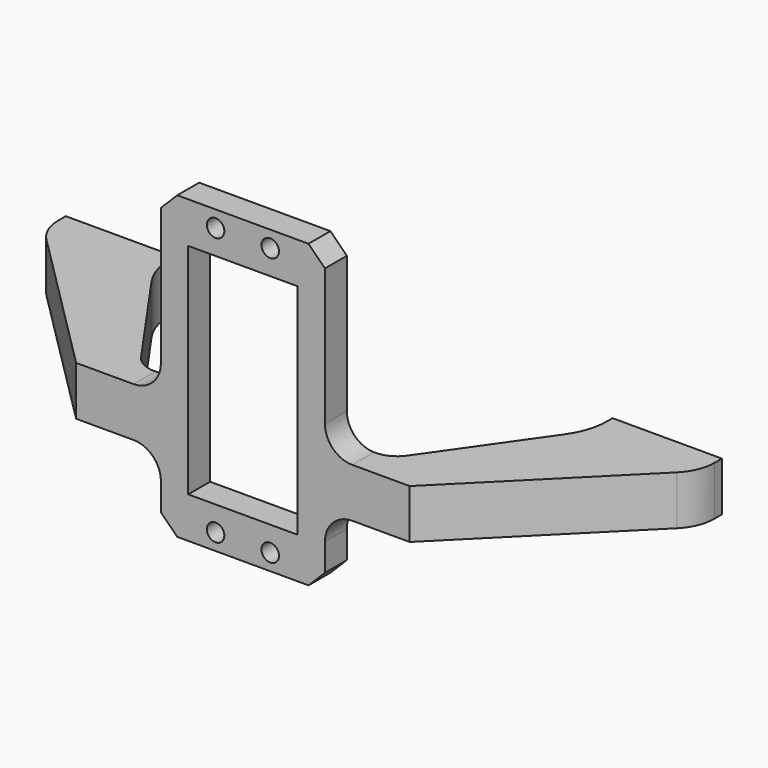
from build123d import *

# Parameters (mm, degrees)
PAD005_DEPTH    = 4.5
SKETCH013_R     = 2.3
POCKET009_DEPTH = 10
SKETCH014_W     = 30
SKETCH014_H     = 55
SKETCH014_R     = 1.6
SKETCH014_W_2   = 20
SKETCH014_H_2   = 40
PAD006_DEPTH    = 5
FILLET007_R     = 12
FILLET008_R     = 5
FILLET009_R     = 8
CHAMFER009_SIZE = 3
FILLET010_R     = 5


with BuildPart() as part:
    # Sketch012 → Pad005 (new body, symmetric)
    with BuildSketch(Plane.XY):
        Polygon((-60, 0), (-60, -5), (-30.5, -34.5), (-10, -34.5), (-10, -29.5), (-22.844915, -29.5), (-40, -5), (-40, 0), align=None)
    pad005 = extrude(amount=PAD005_DEPTH, both=True)

    # Sketch013 (on Face8 of Pad005) → Pocket009 (cut)
    with BuildSketch(Plane(origin=(0, 0, 0), x_dir=(-1, 0, 0), z_dir=(0, 1, 0))):
        with Locations((50, 0)):
            Circle(SKETCH013_R)
    pocket009 = extrude(amount=-POCKET009_DEPTH, mode=Mode.SUBTRACT)

    # Mirrored001: Pad005, Pocket009 across YZ
    add(pad005.mirror(Plane.YZ))
    add(pocket009.mirror(Plane.YZ), mode=Mode.SUBTRACT)

    # Sketch014 (on Face10 of Mirrored001) → Pad006 (join)
    with BuildSketch(Plane(origin=(0, -29.5, 0), x_dir=(-1, 0, 0), z_dir=(0, 1, 0))):
        with Locations((0, 10)):
            Rectangle(SKETCH014_W, SKETCH014_H)
        with Locations((5, 34.5)):
            Circle(SKETCH014_R, mode=Mode.SUBTRACT)
        with Locations((-5, 34.5)):
            Circle(SKETCH014_R, mode=Mode.SUBTRACT)
        with Locations((5, -14.5)):
            Circle(SKETCH014_R, mode=Mode.SUBTRACT)
        with Locations((-5, -14.5)):
            Circle(SKETCH014_R, mode=Mode.SUBTRACT)
        with Locations((0, 10)):
            Rectangle(SKETCH014_W_2, SKETCH014_H_2, mode=Mode.SUBTRACT)
    extrude(amount=-PAD006_DEPTH)

    # Fillet007
    fillet007_edges = [part.edges().sort_by_distance(p)[0] for p in [
        (-40, -5, 0),
        (40, -5, 0),
    ]]
    fillet(fillet007_edges, radius=FILLET007_R)

    # Fillet008
    fillet008_edges = [part.edges().sort_by_distance(p)[0] for p in [
        (22.844915, -29.5, 0),
        (-22.844915, -29.5, 0),
    ]]
    fillet(fillet008_edges, radius=FILLET008_R)

    # Fillet009
    fillet009_edges = [part.edges().sort_by_distance(p)[0] for p in [
        (60, -5, 0),
        (-60, -5, 0),
    ]]
    fillet(fillet009_edges, radius=FILLET009_R)

    # Chamfer009
    chamfer009_edges = [part.edges().sort_by_distance(p)[0] for p in [
        (15, -32, -17.5),
        (-15, -32, -17.5),
        (15, -32, 37.5),
        (-15, -32, 37.5),
    ]]
    chamfer(chamfer009_edges, length=CHAMFER009_SIZE)

    # Fillet010
    fillet010_edges = [part.edges().sort_by_distance(p)[0] for p in [
        (15, -32, 4.5),
        (15, -32, -4.5),
        (-15, -32, 4.5),
        (-15, -32, -4.5),
    ]]
    fillet(fillet010_edges, radius=FILLET010_R)


solid = part.part
